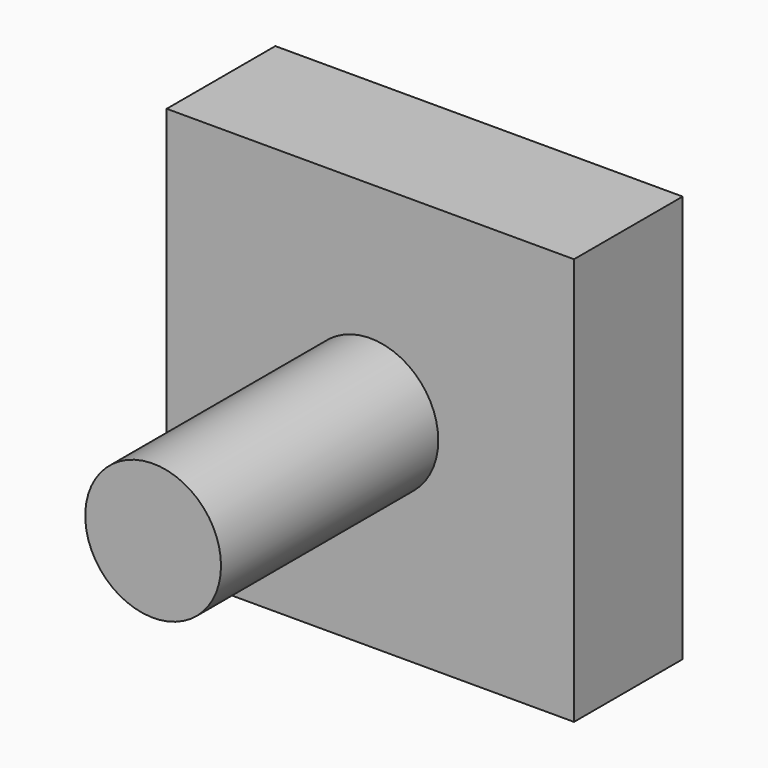
from build123d import *

# Parameters (mm, degrees)
F0_W     = 76.2
F0_H     = 76.2
F1_DEPTH = 12.7
F2_R     = 12.7
F3_DEPTH = 50.8


with BuildPart() as f1:
    # F0 (on Front) → F1 (new body, symmetric)
    with BuildSketch(Plane.XZ):
        Rectangle(F0_W, F0_H)
    extrude(amount=F1_DEPTH, both=True)

    # F2 (on face) → F3 (join)
    with BuildSketch(Plane.XZ.offset(12.7)):
        Circle(F2_R)
    extrude(amount=F3_DEPTH)


solid = f1.part
